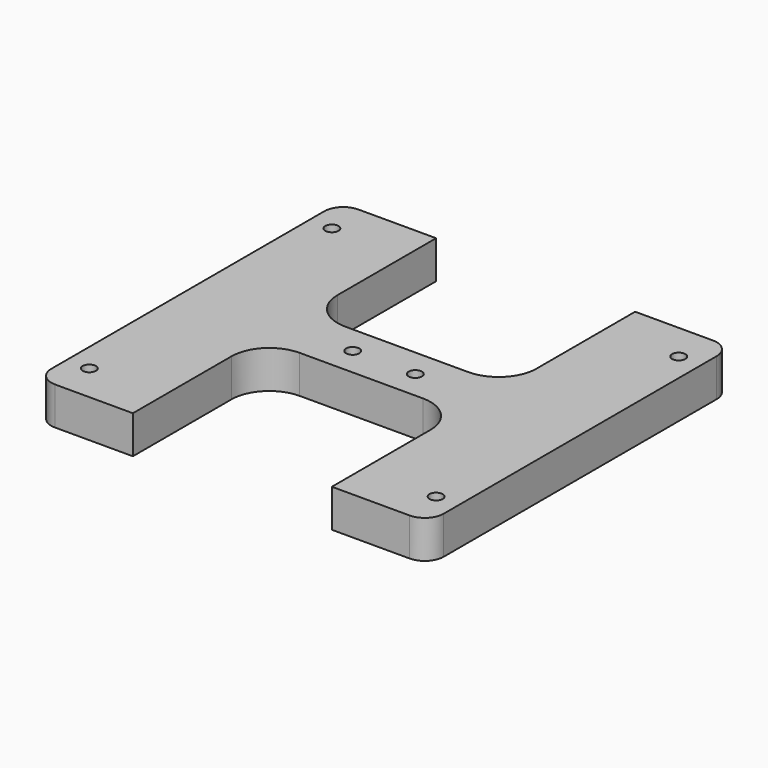
from build123d import *

# Parameters (mm, degrees)
SKETCH_W        = 103.5
SKETCH_H        = 100
PAD_DEPTH       = 10
SKETCH001_W     = 52.5
SKETCH001_H     = 42.5
POCKET_DEPTH    = 10.001
SKETCH002_R     = 1.75
POCKET001_DEPTH = 10.001
FILLET_R        = 5
FILLET001_R     = 10


with BuildPart() as part:
    # Sketch → Pad (new body)
    with BuildSketch(Plane.XY):
        with Locations((51.75, 50)):
            Rectangle(SKETCH_W, SKETCH_H)
    extrude(amount=PAD_DEPTH)

    # Sketch001 (on Face6 of Pad) → Pocket (cut, through all)
    with BuildSketch(Plane.XY.offset(10)):
        with Locations((51.75, 78.75)):
            Rectangle(SKETCH001_W, SKETCH001_H)
        with Locations((51.75, 21.25)):
            Rectangle(SKETCH001_W, SKETCH001_H)
    extrude(amount=-POCKET_DEPTH, mode=Mode.SUBTRACT)

    # Sketch002 (on Face4 of Pocket) → Pocket001 (cut, through all)
    with BuildSketch(Plane.XY.offset(10)):
        with Locations((6, 90)):
            Circle(SKETCH002_R)
        with Locations((6, 10)):
            Circle(SKETCH002_R)
        with Locations((43.5, 50)):
            Circle(SKETCH002_R)
        with Locations((97.5, 90)):
            Circle(SKETCH002_R)
        with Locations((97.5, 10)):
            Circle(SKETCH002_R)
        with Locations((60, 50)):
            Circle(SKETCH002_R)
    extrude(amount=-POCKET001_DEPTH, mode=Mode.SUBTRACT)

    # Fillet
    fillet_edges = [part.edges().sort_by_distance(p)[0] for p in [
        (0, 100, 5),
        (0, 0, 5),
        (103.5, 0, 5),
        (103.5, 100, 5),
    ]]
    fillet(fillet_edges, radius=FILLET_R)

    # Fillet001
    fillet001_edges = [part.edges().sort_by_distance(p)[0] for p in [
        (78, 57.5, 5),
        (25.5, 42.5, 5),
        (25.5, 57.5, 5),
        (78, 42.5, 5),
    ]]
    fillet(fillet001_edges, radius=FILLET001_R)


solid = part.part
